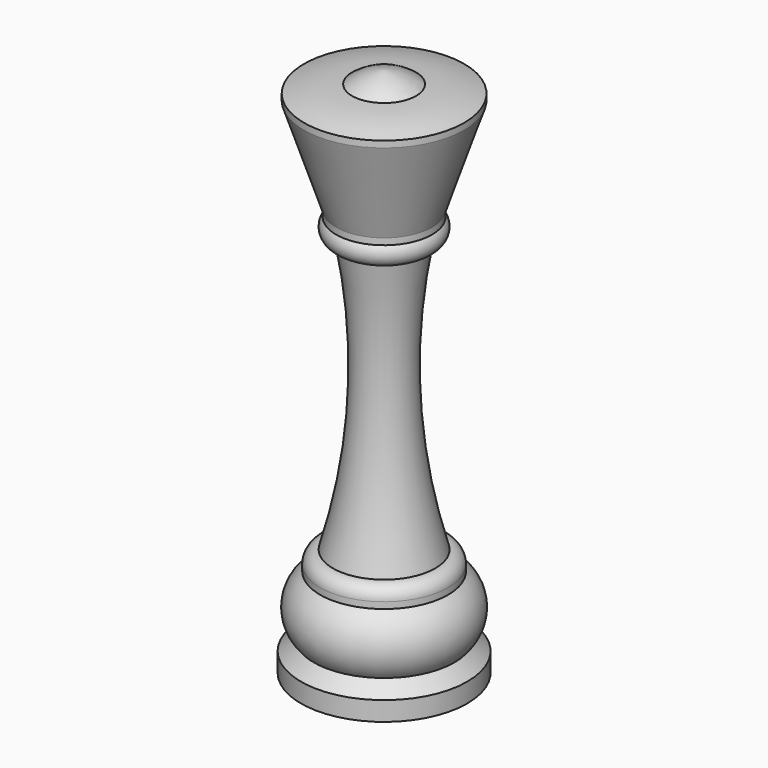
from build123d import *


with BuildPart() as f1:
    # F0 (on Front) → F1 (revolve)
    with BuildSketch(Plane.XZ):
        with BuildLine():
            ThreePointArc((12.5, -3.27), (8.798586, -2.348076), (5, -2))
            ThreePointArc((5, -2), (2.637162, -0.657095), (0, 0))
            Line((0, 0), (0, -82.99))
            Line((0, -82.99), (13, -82.99))
            Line((13, -82.99), (13, -79.99))
            Line((13, -79.99), (11, -77.99))
            ThreePointArc((11, -77.99), (12.53332, -73.27832), (10, -69.02))
            Line((10, -69.02), (10, -68.02))
            ThreePointArc((10, -68.02), (9.414214, -66.605786), (8, -66.02))
            ThreePointArc((8, -66.02), (4.460945, -44.924682), (6, -23.59))
            ThreePointArc((6, -23.59), (7.820079, -22.413469), (7.5, -20.27))
            Line((7.5, -20.27), (7.5, -19.27))
            Line((7.5, -19.27), (12.5, -4.27))
            Line((12.5, -4.27), (12.5, -3.27))
        make_face()
    revolve(axis=Axis((0, 0, -41.495), (0, 0, 1)))


solid = f1.part
